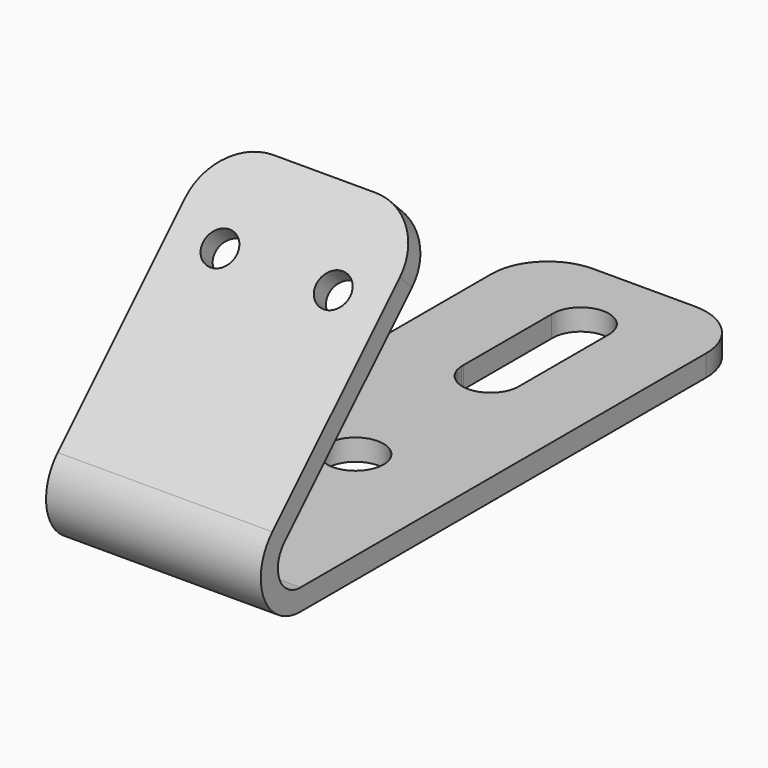
from build123d import *

# Parameters (mm, degrees)
F1_DEPTH = 241.935
F2_R     = 63.5
F3_DEPTH = 76.2
F4_R     = 38.1
F5_DEPTH = 76.2
F6_R     = 127


with BuildPart() as f1:
    # F0 (on Right) → F1 (new body, symmetric)
    with BuildSketch(Plane.YZ):
        with BuildLine():
            ThreePointArc((-79.026254, 190.786254), (-103.252777, 68.9913), (0, 0))
            Line((0, 0), (1270, 0))
            Line((1270, 0), (1270, 48.260001))
            Line((1270, 48.260001), (0, 48.260001))
            ThreePointArc((0, 48.260001), (-58.66635, 87.459602), (-44.90128, 156.66128))
            Line((-44.90128, 156.66128), (404.111526, 605.674086))
            Line((404.111526, 605.674086), (369.986552, 639.79906))
            Line((369.986552, 639.79906), (-79.026254, 190.786254))
        make_face()
    extrude(amount=F1_DEPTH, both=True)

    # F2 (on face) → F3 (cut)
    with BuildSketch(Plane.XY.offset(48.260001)):
        with Locations((0, 457.2)):
            Circle(F2_R)
        with BuildLine():
            Line((63.448983, 840.7449), (63.448983, 1089.6551))
            ThreePointArc((63.448983, 1089.6551), (0, 1155.7), (-63.448983, 1089.6551))
            Line((-63.448983, 1089.6551), (-63.448983, 840.7449))
            Line((-63.448983, 840.7449), (-63.448983, 835.6551))
            ThreePointArc((-63.448983, 835.6551), (2.5449, 774.751017), (63.448983, 840.7449))
        make_face()
        with BuildLine():
            Line((-63.448983, 835.6551), (-63.448983, 840.7449))
            ThreePointArc((-63.448983, 840.7449), (-63.5, 838.2), (-63.448983, 835.6551))
        make_face()
    extrude(amount=-F3_DEPTH, mode=Mode.SUBTRACT)

    # F4 (on face) → F5 (cut)
    with BuildSketch(Plane(origin=(0, -134.906254, 134.906254), x_dir=(1, 0, 0), z_dir=(0, -0.707107, 0.707107))):
        with Locations((-127.635, 523.526254)):
            Circle(F4_R)
        with Locations((127.635, 523.526254)):
            Circle(F4_R)
    extrude(amount=-F5_DEPTH, mode=Mode.SUBTRACT)

    # F6
    f6_edges = [f1.edges().sort_by_distance(p)[0] for p in [
        (241.935, 387.049039, 622.736573),
        (-241.935, 387.049039, 622.736573),
        (241.935, 1270, 24.13),
        (-241.935, 1270, 24.13),
    ]]
    fillet(f6_edges, radius=F6_R)


solid = f1.part
